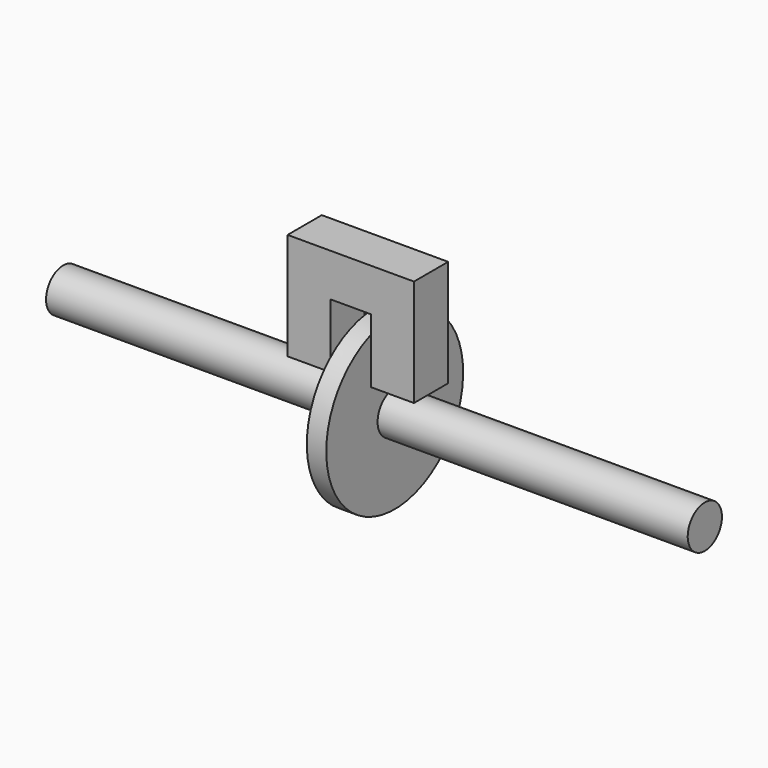
from build123d import *

# Parameters (mm, degrees)
F0_W     = 23.077656
F0_H     = 76.2
F2_DEPTH = 50.8


with BuildPart() as f1:
    # F0 (on Front) → F1 (revolve)
    with BuildSketch(Plane.XZ):
        Polygon((-10.377656, 20.105556), (-381, 20.105556), (-381, -5.294444), (381, -5.294444), (381, 20.105556), (12.7, 20.105556), align=None)
        with Locations((1.161172, 58.205556)):
            Rectangle(F0_W, F0_H)
    revolve(axis=Axis((0, 0, -5.294444), (1, 0, 0)))


with BuildPart() as f2:
    # F0 (on Front) → F2 (new body)
    with BuildSketch(Plane.XZ):
        Polygon((-73.877656, 45.505556), (-23.077656, 45.505556), (-23.077656, 121.705556), (25.4, 121.705556), (25.4, 45.505556), (76.2, 45.505556), (76.2, 172.505556), (-73.877656, 172.505556), align=None)
    extrude(amount=F2_DEPTH)


solid = Compound([f1.part, f2.part])
